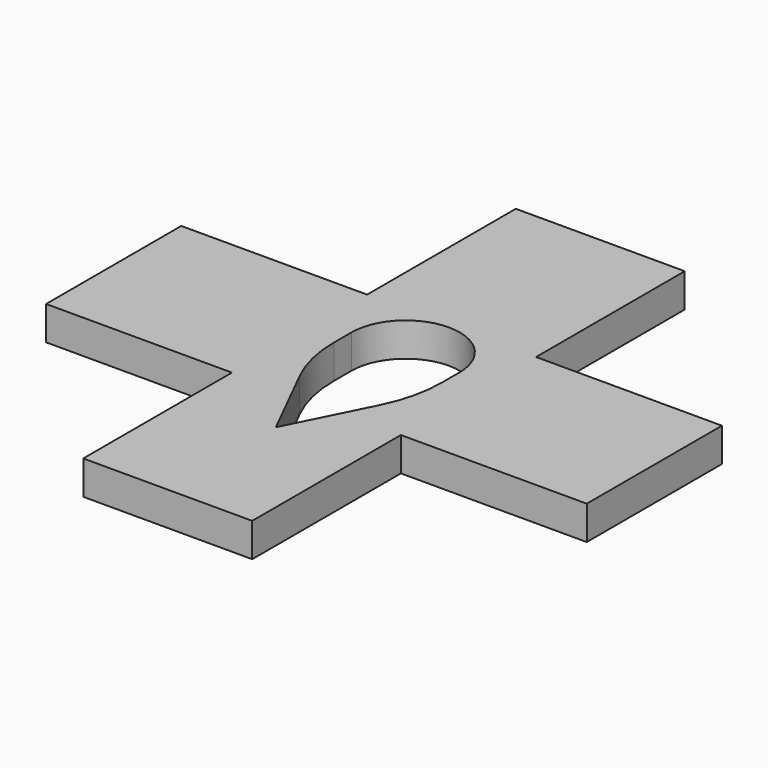
from build123d import *

# Parameters (mm, degrees)
F1_DEPTH = 1.27


with BuildPart() as f1:
    # F0 (on Top) → F1 (new body)
    with BuildSketch(Plane.XY):
        Polygon((3.175, 10.16), (-3.175, 10.16), (-3.175, 3.175), (-10.16, 3.175), (-10.16, -3.175), (-3.175, -3.175), (-3.175, -10.16), (3.175, -10.16), (3.175, -3.175), (10.16, -3.175), (10.16, 3.175), (3.175, 3.175), align=None)
        with BuildLine():
            Line((-2.032, 0.183225), (-2.032, 1.016))
            ThreePointArc((-2.032, 1.016), (0, 3.048), (2.032, 1.016))
            Line((2.032, 1.016), (2.032, 0.183225))
            ThreePointArc((2.032, 0.183225), (1.896105, -0.98392), (1.49569, -2.08862))
            Line((1.49569, -2.08862), (0, -5.08))
            Line((0, -5.08), (-1.49569, -2.08862))
            ThreePointArc((-1.49569, -2.08862), (-1.896105, -0.98392), (-2.032, 0.183225))
        make_face(mode=Mode.SUBTRACT)
    extrude(amount=F1_DEPTH)


solid = f1.part
